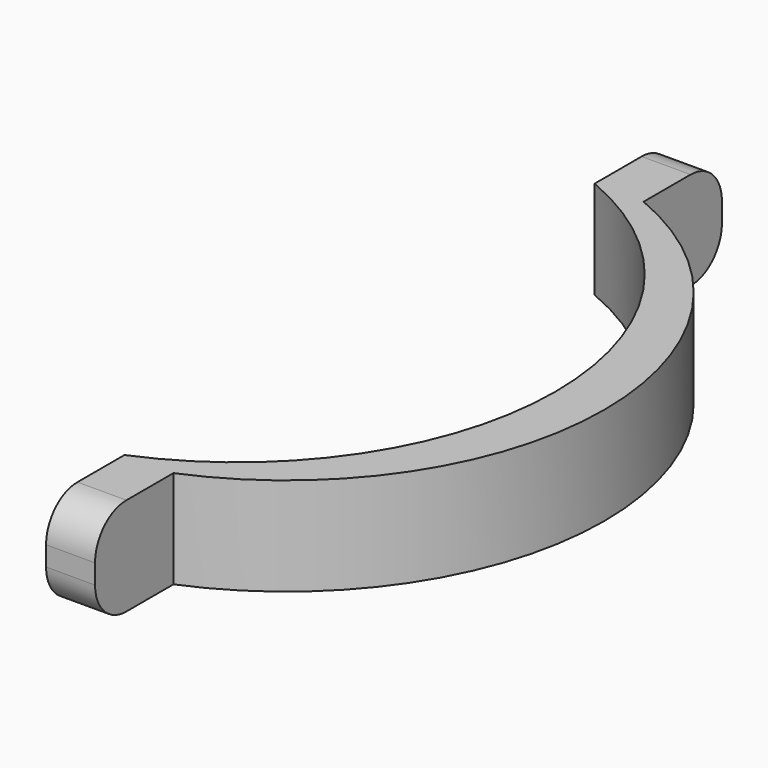
from build123d import *

# Parameters (mm, degrees)
F1_DEPTH = 6.35
F2_R     = 2.54


with BuildPart() as f1:
    # F0 (on Top) → F1 (new body)
    with BuildSketch(Plane.XY):
        with BuildLine():
            ThreePointArc((0, 19.320728), (12.7, 0.270728), (0, -18.779272))
            Line((0, -18.779272), (0, -25.129272))
            Line((0, -25.129272), (3.175, -25.129272))
            Line((3.175, -25.129272), (3.175, -18.779272))
            ThreePointArc((3.175, -18.779272), (15.875, 0.270728), (3.175, 19.320728))
            Line((3.175, 19.320728), (3.175, 25.670728))
            Line((3.175, 25.670728), (0, 25.670728))
            Line((0, 25.670728), (0, 19.320728))
        make_face()
    extrude(amount=F1_DEPTH)

    # F2
    f2_edges = [f1.edges().sort_by_distance(p)[0] for p in [
        (1.5875, -25.129272, 6.35),
        (1.5875, -25.129272, 0),
        (1.5875, 25.670728, 0),
        (1.5875, 25.670728, 6.35),
    ]]
    fillet(f2_edges, radius=F2_R)


solid = f1.part
